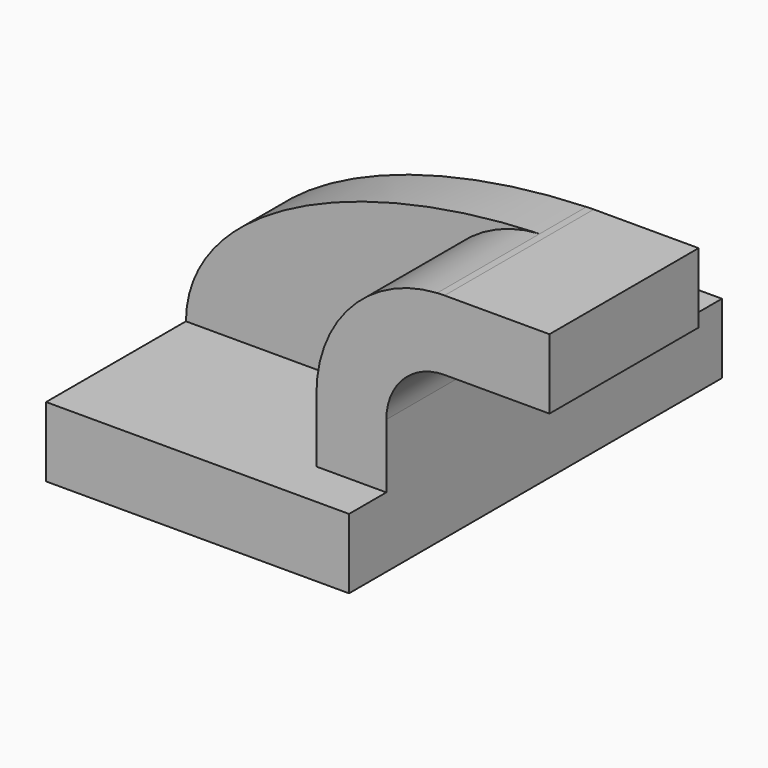
from build123d import *

# Parameters (mm, degrees)
F1_DEPTH = 63.5
F0_W     = 25.4
F0_H     = 19.05
F2_DEPTH = 50.8
F3_DEPTH = 15.875


with BuildPart() as f1:
    # F0 (on Front) → F1 (new body, symmetric)
    with BuildSketch(Plane.XZ):
        Polygon((22.225, 9.525), (-41.275, 9.525), (-41.275, -9.525), (41.275, -9.525), (41.275, 9.525), align=None)
    extrude(amount=F1_DEPTH, both=True)

    # F0 (on Front) → F2 (join)
    with BuildSketch(Plane.XZ):
        with BuildLine():
            Line((22.225, 27.0002), (22.225, 9.525))
            Line((22.225, 9.525), (41.275, 9.525))
            Line((41.275, 9.525), (41.275, 27.0002))
            ThreePointArc((41.275, 27.0002), (45.9246798487, 38.2255201513), (57.15, 42.8752))
            Line((57.15, 42.8752), (60.325, 42.8752))
            Line((60.325, 42.8752), (60.325, 61.9252))
            Line((60.325, 61.9252), (57.15, 61.9252))
            add(Edge.make_bspline(
                [(55.1300589584, 61.8667378721), (55.8023663575, 61.8895709861), (56.4757096001, 61.9090664162), (57.15, 61.9252)],
                knots=[110.0549330029, 110.0549330029, 110.0549330029, 110.0549330029, 111.5045361635, 111.5045361635, 111.5045361635, 111.5045361635], degree=3))
            ThreePointArc((55.1300589584, 61.8667378721), (31.7501765176, 50.9711113732), (22.225, 27.0002))
        make_face()
        with Locations((73.025, 52.4002)):
            Rectangle(F0_W, F0_H)
    extrude(amount=F2_DEPTH)

    # F0 (on Front) → F3 (join)
    with BuildSketch(Plane.XZ):
        with BuildLine():
            add(Edge.make_bspline(
                [(-41.275, 9.525), (-40.983522632, 39.1614563613), (4.0879891143, 60.1332311464), (55.1300589584, 61.8667378721)],
                knots=[0, 0, 0, 0, 110.0549330029, 110.0549330029, 110.0549330029, 110.0549330029], degree=3))
            Line((-41.275, 9.525), (22.225, 9.525))
            Line((22.225, 9.525), (22.225, 27.0002))
            ThreePointArc((22.225, 27.0002), (31.7501765176, 50.9711113732), (55.1300589584, 61.8667378721))
        make_face()
    extrude(amount=F3_DEPTH)


solid = f1.part
